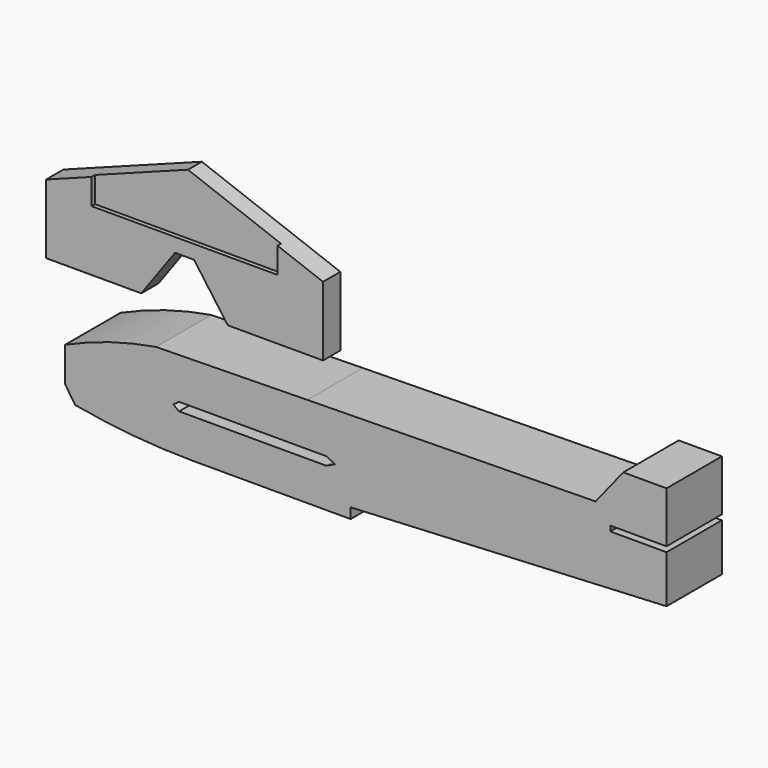
from build123d import *

# Parameters (mm, degrees)
F1_DEPTH = 80
F3_DEPTH = 25
F4_DEPTH = 20


with BuildPart() as f1:
    # F0 (on Front) → F1 (new body)
    with BuildSketch(Plane.XZ):
        with BuildLine():
            Line((10.933332, 47.13218), (-94.066668, 15.13218))
            Line((-94.066668, 15.13218), (-94.066668, -24.86782))
            Line((-94.066668, -24.86782), (-82.427307, -42.326861))
            ThreePointArc((-82.427307, -42.326861), (-14.401986, -51.691588), (54.191409, -54.86782))
            Line((54.191409, -54.86782), (55.717245, -54.86782))
            Line((55.717245, -54.86782), (235.933332, -54.86782))
            Line((235.933332, -54.86782), (235.933332, -42.86782))
            Line((235.933332, -42.86782), (600.933332, -24.86782))
            Line((600.933332, -24.86782), (600.933332, 30.13218))
            Line((600.933332, 30.13218), (535.933332, 30.13218))
            Line((535.933332, 30.13218), (535.933332, 36.13218))
            Line((535.933332, 36.13218), (600.933332, 36.13218))
            Line((600.933332, 36.13218), (600.933332, 95.13218))
            Line((600.933332, 95.13218), (550.933332, 95.13218))
            Line((550.933332, 95.13218), (518.933332, 55.13218))
            Line((518.933332, 55.13218), (185.933332, 50.13218))
            Line((185.933332, 50.13218), (10.933332, 47.13218))
        make_face()
        Polygon((37.689517, -9.735639), (30.933332, -4.86782), (37.689517, 0), (207.61624, 0), (217.942923, -4.86782), (207.61624, -9.735639), align=None, mode=Mode.SUBTRACT)
        with BuildLine():
            ThreePointArc((10.933332, 47.13218), (-42.613919, 34.568475), (-94.066668, 15.13218))
            Line((-94.066668, 15.13218), (10.933332, 47.13218))
        make_face()
    extrude(amount=F1_DEPTH)


with BuildPart() as f3:
    # F2 (on Front) → F3 (new body)
    with BuildSketch(Plane.XZ):
        Polygon((-11, 113.451787), (0, 113.451787), (11, 113.451787), (50, 59.451787), (160, 59.451787), (160, 139.451787), (107.5, 159.139287), (107.5, 129.451787), (0, 129.451787), (-107.5, 129.451787), (-107.5, 159.139287), (-160, 139.451787), (-160, 59.451787), (-50, 59.451787), align=None)
    extrude(amount=F3_DEPTH)

    # F2 (on Front) → F4 (join)
    with BuildSketch(Plane.XZ):
        Polygon((0, 199.451787), (-107.5, 159.139287), (-107.5, 129.451787), (0, 129.451787), (107.5, 129.451787), (107.5, 159.139287), align=None)
    extrude(amount=F4_DEPTH)


solid = Compound([f1.part, f3.part])
